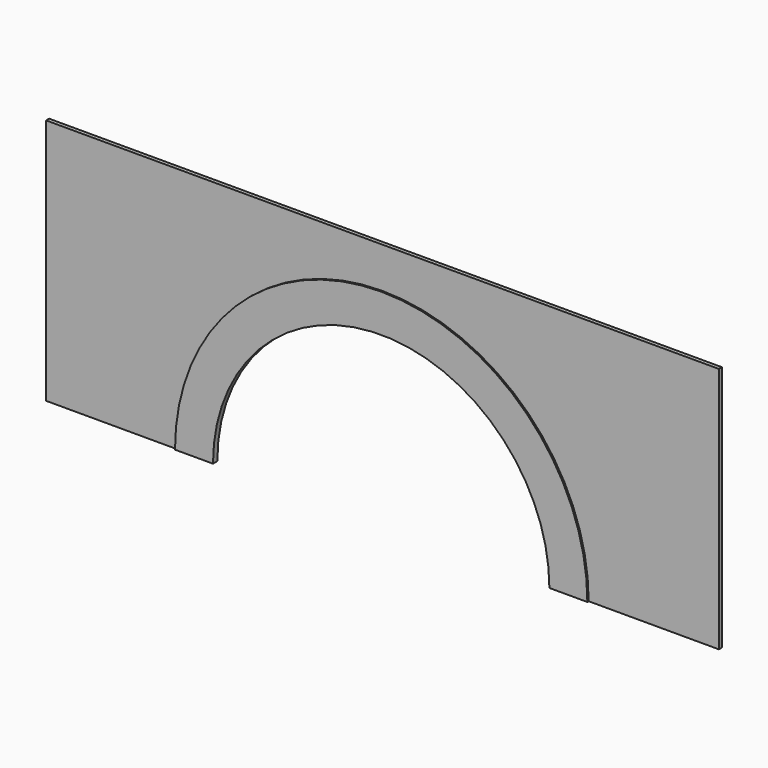
from build123d import *

# Parameters (mm, degrees)
F1_DEPTH = 0.35
F2_DEPTH = 0.5


with BuildPart() as f1:
    # F0 (on Front) → F1 (new body)
    with BuildSketch(Plane.XZ):
        with BuildLine():
            Line((-190.517892, -51.960177), (-190.517892, -29.210177))
            Line((-190.517892, -29.210177), (-252.517892, -29.210177))
            Line((-252.517892, -29.210177), (-252.517892, -51.960177))
            Line((-252.517892, -51.960177), (-240.517892, -51.960177))
            ThreePointArc((-240.517892, -51.960177), (-221.517892, -32.960177), (-202.517892, -51.960177))
            Line((-202.517892, -51.960177), (-190.517892, -51.960177))
        make_face()
    extrude(amount=F1_DEPTH)

    # F0 (on Front) → F2 (join)
    with BuildSketch(Plane.XZ):
        with BuildLine():
            Line((-206.017892, -51.960177), (-202.517892, -51.960177))
            ThreePointArc((-202.517892, -51.960177), (-221.517892, -32.960177), (-240.517892, -51.960177))
            Line((-240.517892, -51.960177), (-237.017892, -51.960177))
            ThreePointArc((-237.017892, -51.960177), (-221.517892, -36.460177), (-206.017892, -51.960177))
        make_face()
    extrude(amount=F2_DEPTH)


solid = f1.part
